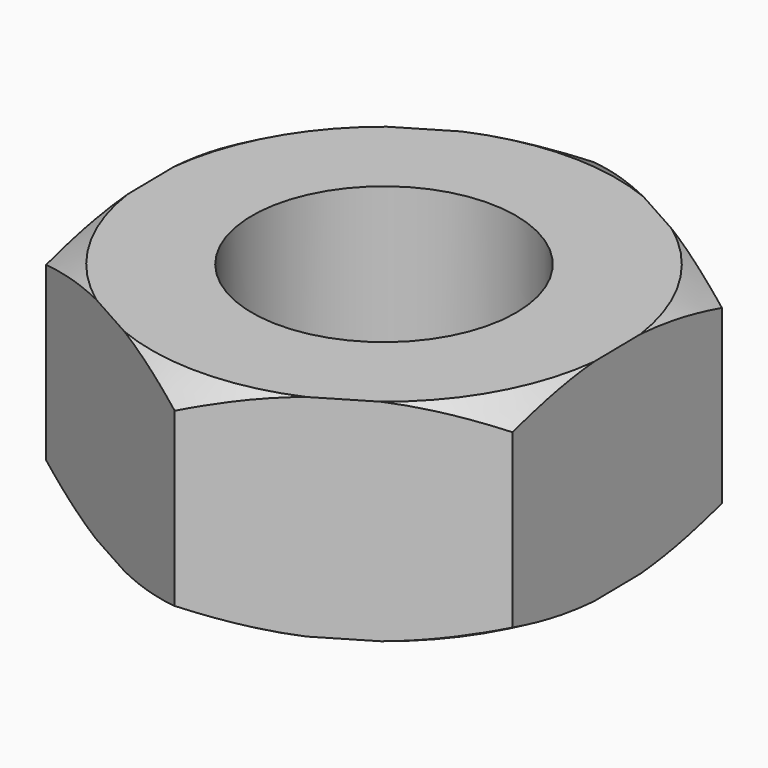
from build123d import *

# Parameters (mm, degrees)
F0_R     = 50.8
F1_DEPTH = 81.28


with BuildPart() as f1:
    # F0 (on Top) → F1 (new body)
    with BuildSketch(Plane.XY):
        Polygon((88.161778, 52.584354), (-1.458498, 102.642516), (-89.620275, 50.058162), (-88.161778, -52.584354), (1.458498, -102.642516), (89.620275, -50.058162), align=None)
        Circle(F0_R, mode=Mode.SUBTRACT)
    extrude(amount=F1_DEPTH)

    # F2 (on Front) → F3 (revolve, cut)
    with BuildSketch(Plane.XZ):
        Polygon((161.132823, 41.287788), (157.832084, 81.28), (89.620275, 81.28), (160.01082, 40.64), align=None)
        Polygon((161.245103, 41.352613), (161.132823, 41.287788), (161.186287, 40.64), align=None)
        Polygon((161.132823, 39.992212), (160.01082, 40.64), (89.620275, 0), (157.832084, 0), align=None)
        Polygon((161.245103, 39.927387), (161.186287, 40.64), (161.132823, 39.992212), align=None)
    revolve(axis=Axis((0, 0, 40.64), (0, 0, 1)), mode=Mode.SUBTRACT)


solid = f1.part
